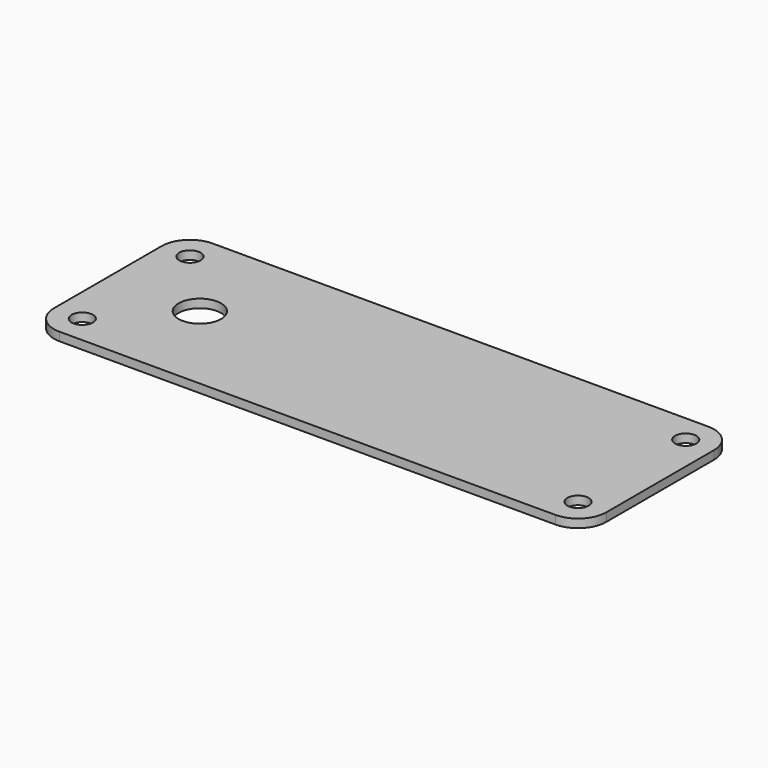
from build123d import *

# Parameters (mm, degrees)
PAD041_DEPTH    = 1.2
SKETCH044_R     = 1.5
POCKET001_DEPTH = 5
SKETCH046_R     = 3
POCKET003_DEPTH = 5


with BuildPart() as part:
    # Sketch042 → Pad041 (new body)
    with BuildSketch(Plane.XY):
        with BuildLine():
            Line((-34.999999, 27), (35.000001, 27))
            ThreePointArc((38.999841, 23.000159), (37.828268, 25.828427), (35.000001, 27))
            Line((38.999841, 23.000159), (38.999841, 4.000159))
            ThreePointArc((35, 0), (37.828381, 1.171685), (38.999841, 4.000159))
            Line((35, 0), (-35, 0))
            ThreePointArc((-39.000159, 4.000159), (-37.828586, 1.171573), (-35, 0))
            Line((-39.000159, 23.00016), (-39.000159, 4.000159))
            ThreePointArc((-34.999999, 27), (-37.828473, 25.82854), (-39.000159, 23.00016))
        make_face()
    extrude(amount=PAD041_DEPTH)

    # Sketch044 (on Face10 of Pad041) → Pocket001 (cut)
    with BuildSketch(Plane.XY.offset(1.2)):
        with Locations((-35, 23)):
            Circle(SKETCH044_R)
        with Locations((35, 23)):
            Circle(SKETCH044_R)
        with Locations((35, 4)):
            Circle(SKETCH044_R)
        with Locations((-35, 4)):
            Circle(SKETCH044_R)
    extrude(amount=-POCKET001_DEPTH, mode=Mode.SUBTRACT)

    # Sketch046 (on Face5 of Pocket001) → Pocket003 (cut)
    with BuildSketch(Plane.XY.offset(1.2)):
        with Locations((-26, 13.5)):
            Circle(SKETCH046_R)
    extrude(amount=-POCKET003_DEPTH, mode=Mode.SUBTRACT)


with BuildPart() as part_1:
    # Body015 placement: moved
    add(part.part.moved(Location((0, 0, 120))))


solid = part_1.part
